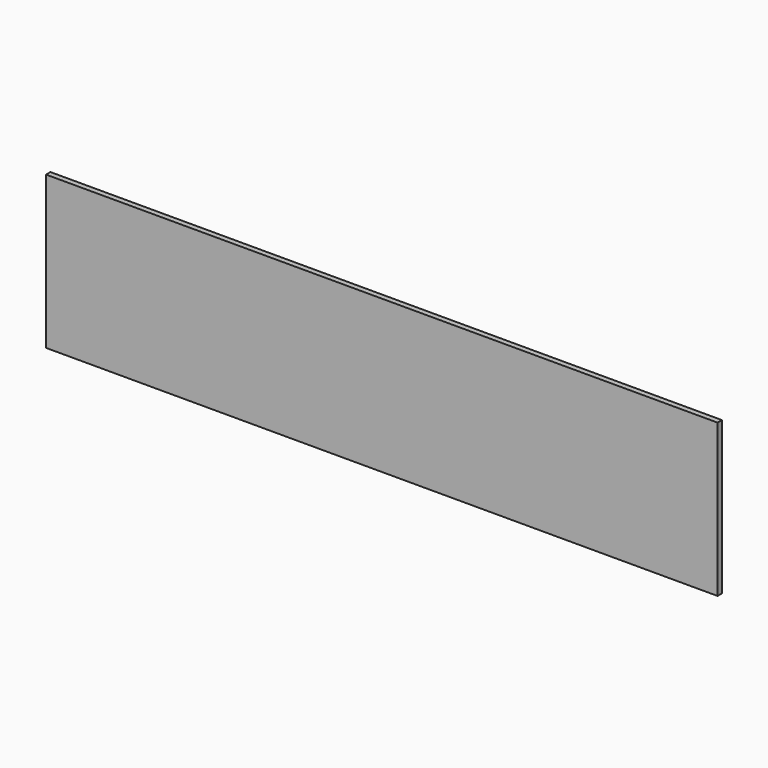
from build123d import *

# Parameters (mm, degrees)
F0_W     = 43.4928238392
F0_H     = 32.2236791253
F1_DEPTH = 18
F2_DEPTH = 2200
F3_DEPTH = 500


with BuildPart() as f1:
    # F0 (on Front) → F1 (new body)
    with BuildSketch(Plane.XZ):
        with Locations((-21.7464119196, 16.1118395627)):
            Rectangle(F0_W, F0_H)
    extrude(amount=-F1_DEPTH)

    # F2 (add): a face of the model
    f2_faces = [f1.faces().sort_by_distance(p)[0] for p in [
        (0, 9, 16.1118395627),
    ]]
    extrude(f2_faces, amount=-F2_DEPTH)

    # F3 (add): a face of the model
    f3_faces = [f1.faces().sort_by_distance(p)[0] for p in [
        (-1100, 9, 0),
    ]]
    extrude(f3_faces, amount=-F3_DEPTH)


solid = f1.part
